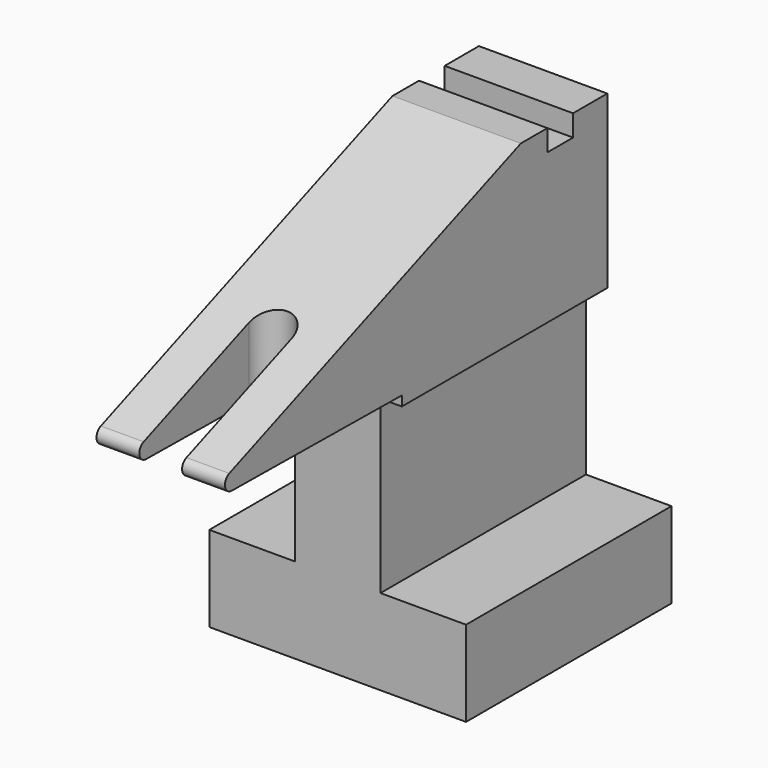
from build123d import *

# Parameters (mm, degrees)
F1_DEPTH = 12
F3_DEPTH = 25
F5_DEPTH = 25


with BuildPart() as f1:
    # F0 (on Front) → F1 (new body)
    with BuildSketch(Plane.XZ):
        Polygon((0, 2), (0, 0), (6, 0), (6, 2), (4, 2), (4, 6), (4.5, 6), (4.5, 10), (1.5, 10), (1.5, 6), (2, 6), (2, 2), align=None)
    extrude(amount=F1_DEPTH)

    # F2 (on face) → F3 (cut)
    with BuildSketch(Plane(origin=(0, 0, 0), x_dir=(0, -1, 0), z_dir=(-1, 0, 0))):
        with BuildLine():
            Line((6, 6.23), (6, 0))
            Line((6, 0), (13.765802, 0))
            Line((13.765802, 0), (13.765802, 10.684827))
            Line((13.765802, 10.684827), (0, 10.684827))
            Line((0, 10.684827), (0, 10))
            Line((0, 10), (1, 10))
            Line((1, 10), (1, 9.5))
            Line((1, 9.5), (1.75, 9.5))
            Line((1.75, 9.5), (1.75, 10))
            Line((1.75, 10), (2.525424, 10))
            Line((2.525424, 10), (11.041579, 6.674281))
            ThreePointArc((11.041579, 6.674281), (11.165583, 6.452114), (10.971159, 6.287997))
            Line((10.971159, 6.287997), (6, 6.23))
        make_face()
    extrude(amount=-F3_DEPTH, mode=Mode.SUBTRACT)

    # F4 (on face) → F5 (cut)
    with BuildSketch(Plane(origin=(0, 0, 0), x_dir=(1, 0, 0), z_dir=(0, 0, -1))):
        with BuildLine():
            ThreePointArc((3.5, 11.886248), (3, 12.386248), (2.5, 11.886248))
            Line((2.5, 11.886248), (2.5, 7.971159))
            ThreePointArc((2.5, 7.971159), (3, 7.471159), (3.5, 7.971159))
            Line((3.5, 7.971159), (3.5, 11.886248))
        make_face()
    extrude(amount=-F5_DEPTH, mode=Mode.SUBTRACT)


solid = f1.part
